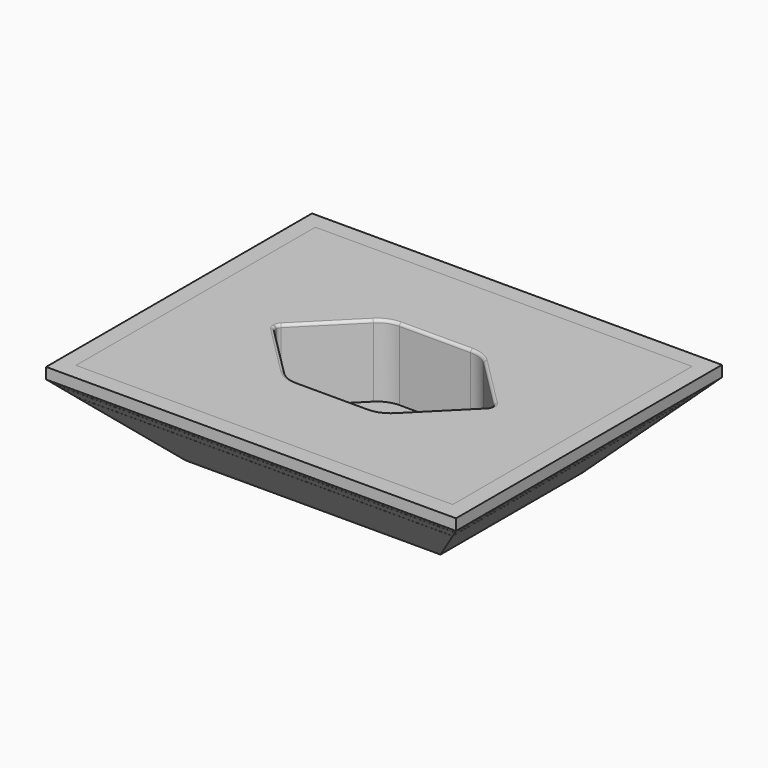
from build123d import *

# Parameters (mm, degrees)
BOX042_W          = 50
BOX042_H          = 50
BOX042_DEPTH      = 13
BOX039_W          = 68
BOX039_H          = 54
BOX039_DEPTH      = 4.1
BOX038_W          = 74
BOX038_H          = 60
BOX038_DEPTH      = 4.1
CHAMFER021_SIZE   = 2
CHAMFER022_SIZE   = 2
BOX033_W          = 72
BOX033_H          = 58
BOX033_DEPTH      = 42
BOX032_W          = 74
BOX032_H          = 60
BOX032_DEPTH      = 42
CHAMFER020_SIZE   = 0.99
BOX041_W          = 74
BOX041_H          = 60
BOX041_DEPTH      = 5
BOX040_W          = 74
BOX040_H          = 60
BOX040_DEPTH      = 10
CYLINDER004_R     = 1.5
CYLINDER004_DEPTH = 20
CYLINDER003_R     = 2.25
CYLINDER003_DEPTH = 20
CYLINDER002_R     = 2.25
CYLINDER002_DEPTH = 20
CYLINDER001_R     = 2.25
CYLINDER001_DEPTH = 20
CYLINDER_R        = 2.25
CYLINDER_DEPTH    = 20
BOX001_W          = 39
BOX001_H          = 23
BOX001_DEPTH      = 16
CHAMFER_SIZE      = 11
FILLET_R          = 1
FILLET001_R       = 5
BOX_W             = 68
BOX_H             = 54
BOX_DEPTH         = 19
CHAMFER023_SIZE   = 10.99
FILLET002_R       = 0.5
FILLET003_R       = 0.5


with BuildPart() as cube003:
    # Box042 → Box042 (new body)
    with BuildSketch(Plane(origin=(12, -55, 32), x_dir=(1, 0, 0), z_dir=(0, 0, 1))):
        with Locations((25, 25)):
            Rectangle(BOX042_W, BOX042_H)
    extrude(amount=BOX042_DEPTH)


with BuildPart() as obj1:
    # Box039 → Box039 (new body)
    with BuildSketch(Plane(origin=(3, -57, 0), x_dir=(1, 0, 0), z_dir=(0, 0, 1))):
        with Locations((34, 27)):
            Rectangle(BOX039_W, BOX039_H)
    extrude(amount=BOX039_DEPTH)


with BuildPart() as chamfer022:
    # Box038 → Box038 (new body)
    with BuildSketch(Plane(origin=(0, -60, 0), x_dir=(1, 0, 0), z_dir=(0, 0, 1))):
        with Locations((37, 30)):
            Rectangle(BOX038_W, BOX038_H)
    extrude(amount=BOX038_DEPTH)

    # Cut019: cut obj1
    add(obj1.part, mode=Mode.SUBTRACT)


with BuildPart() as chamfer022_1:
    # Cut019 placement: moved
    add(chamfer022.part.moved(Location((0, 0, 36.9))))

    # Chamfer021
    chamfer021_edges = [chamfer022_1.edges().sort_by_distance(p)[0] for p in [
        (37, -3, 41),
        (3, -30, 41),
        (37, -57, 41),
        (71, -30, 41),
    ]]
    chamfer(chamfer021_edges, length=CHAMFER021_SIZE)

    # Chamfer022
    chamfer022_edges = [chamfer022_1.edges().sort_by_distance(p)[0] for p in [
        (37, -3, 36.9),
        (3, -30, 36.9),
        (71, -30, 36.9),
        (37, -57, 36.9),
    ]]
    chamfer(chamfer022_edges, length=CHAMFER022_SIZE)


with BuildPart() as obj2:
    # Box033 → Box033 (new body)
    with BuildSketch(Plane(origin=(1, -59, 0), x_dir=(1, 0, 0), z_dir=(0, 0, 1))):
        with Locations((36, 29)):
            Rectangle(BOX033_W, BOX033_H)
    extrude(amount=BOX033_DEPTH)


with BuildPart() as form:
    # Box032 → Box032 (new body)
    with BuildSketch(Plane(origin=(0, -60, 0), x_dir=(1, 0, 0), z_dir=(0, 0, 1))):
        with Locations((37, 30)):
            Rectangle(BOX032_W, BOX032_H)
    extrude(amount=BOX032_DEPTH)

    # Cut014: cut obj2
    add(obj2.part, mode=Mode.SUBTRACT)

    # Chamfer020
    chamfer020_edges = [form.edges().sort_by_distance(p)[0] for p in [
        (37, -1, 42),
        (1, -30, 42),
        (37, -59, 42),
        (73, -30, 42),
    ]]
    chamfer(chamfer020_edges, length=CHAMFER020_SIZE)

    # Fusion: union Chamfer022
    add(chamfer022_1.part)


with BuildPart() as cut022:
    # Box041 → Box041 (new body)
    with BuildSketch(Plane(origin=(0, -60, 39), x_dir=(1, 0, 0), z_dir=(0, 0, 1))):
        with Locations((37, 30)):
            Rectangle(BOX041_W, BOX041_H)
    extrude(amount=BOX041_DEPTH)

    # Cut021: cut Form
    add(form.part, mode=Mode.SUBTRACT)

    # Cut022: cut Cube003
    add(cube003.part, mode=Mode.SUBTRACT)


with BuildPart() as cube:
    # Box040 → Box040 (new body)
    with BuildSketch(Plane(origin=(0, -60, 44), x_dir=(1, 0, 0), z_dir=(0, 0, 1))):
        with Locations((37, 30)):
            Rectangle(BOX040_W, BOX040_H)
    extrude(amount=BOX040_DEPTH)


with BuildPart() as cylinder004:
    # Cylinder004 → Cylinder004 (new body)
    with BuildSketch(Plane(origin=(0, 5, 0), x_dir=(1, 0, 0), z_dir=(0, 0, 1))):
        Circle(CYLINDER004_R)
    extrude(amount=CYLINDER004_DEPTH)


with BuildPart() as cylinder003:
    # Cylinder003 → Cylinder003 (new body)
    with BuildSketch(Plane(origin=(0, 5, 1.5), x_dir=(1, 0, 0), z_dir=(0, 0, 1))):
        Circle(CYLINDER003_R)
    extrude(amount=CYLINDER003_DEPTH)


with BuildPart() as cylinder002:
    # Cylinder002 → Cylinder002 (new body)
    with BuildSketch(Plane(origin=(0, -5, 0), x_dir=(1, 0, 0), z_dir=(0, 0, 1))):
        Circle(CYLINDER002_R)
    extrude(amount=CYLINDER002_DEPTH)


with BuildPart() as cylinder001:
    # Cylinder001 → Cylinder001 (new body)
    with BuildSketch(Plane(origin=(9.5, 0, 0), x_dir=(1, 0, 0), z_dir=(0, 0, 1))):
        Circle(CYLINDER001_R)
    extrude(amount=CYLINDER001_DEPTH)


with BuildPart() as cylinder000:
    # Cylinder → Cylinder (new body)
    with BuildSketch(Plane(origin=(-9.5, 0, 0), x_dir=(1, 0, 0), z_dir=(0, 0, 1))):
        Circle(CYLINDER_R)
    extrude(amount=CYLINDER_DEPTH)


with BuildPart() as obj3:
    # Box001 → Box001 (new body)
    with BuildSketch(Plane(origin=(50, 0, 0), x_dir=(1, 0, 0), z_dir=(0, 0, 1))):
        with Locations((19.5, 11.5)):
            Rectangle(BOX001_W, BOX001_H)
    extrude(amount=BOX001_DEPTH)

    # Chamfer
    chamfer_edges = [obj3.edges().sort_by_distance(p)[0] for p in [
        (50, 0, 8),
        (50, 23, 8),
        (89, 0, 8),
        (89, 23, 8),
    ]]
    chamfer(chamfer_edges, length=CHAMFER_SIZE)

    # Fillet
    fillet_edges = [obj3.edges().sort_by_distance(p)[0] for p in [
        (50, 11, 8),
        (50, 12, 8),
        (89, 11, 8),
        (89, 12, 8),
    ]]
    fillet(fillet_edges, radius=FILLET_R)

    # Fillet001
    fillet001_edges = [obj3.edges().sort_by_distance(p)[0] for p in [
        (61, 0, 8),
        (61, 23, 8),
        (78, 0, 8),
        (78, 23, 8),
    ]]
    fillet(fillet001_edges, radius=FILLET001_R)


with BuildPart() as obj3_1:
    # Fillet001 placement: moved
    add(obj3.part.moved(Location((-69.5, -11.5, 3))))


with BuildPart() as fillet003:
    # Box → Box (new body)
    with BuildSketch(Plane(origin=(-34, -27, 0), x_dir=(1, 0, 0), z_dir=(0, 0, 1))):
        with Locations((34, 27)):
            Rectangle(BOX_W, BOX_H)
    extrude(amount=BOX_DEPTH)

    # Cut: cut obj3
    add(obj3_1.part, mode=Mode.SUBTRACT)

    # Cut001: cut Cylinder000
    add(cylinder000.part, mode=Mode.SUBTRACT)

    # Cut002: cut Cylinder001
    add(cylinder001.part, mode=Mode.SUBTRACT)

    # Cut003: cut Cylinder002
    add(cylinder002.part, mode=Mode.SUBTRACT)

    # Cut004: cut Cylinder003
    add(cylinder003.part, mode=Mode.SUBTRACT)

    # Cut005: cut Cylinder004
    add(cylinder004.part, mode=Mode.SUBTRACT)


with BuildPart() as fillet003_1:
    # Cut005 placement: moved
    add(fillet003.part.moved(Location((37, -30, 28))))

    # Cut020: cut Cube
    add(cube.part, mode=Mode.SUBTRACT)

    # Chamfer023
    chamfer023_edges = [fillet003_1.edges().sort_by_distance(p)[0] for p in [
        (3, -30, 28),
        (37, -57, 28),
        (37, -3, 28),
        (71, -30, 28),
    ]]
    chamfer(chamfer023_edges, length=CHAMFER023_SIZE)

    # Fillet002
    fillet002_edges = [fillet003_1.edges().sort_by_distance(p)[0] for p in [
        (28.657651, -41.119398, 44),
        (37, -41.5, 44),
        (45.342349, -41.119398, 44),
        (51.585786, -35.414214, 44),
        (56.42388, -30.46847, 44),
        (56.5, -30, 44),
        (56.42388, -29.53153, 44),
        (51.585786, -24.585786, 44),
        (45.342349, -18.880602, 44),
        (37, -18.5, 44),
        (28.657651, -18.880602, 44),
        (22.414214, -24.585786, 44),
        (17.57612, -29.53153, 44),
        (17.5, -30, 44),
        (17.57612, -30.46847, 44),
        (22.414214, -35.414214, 44),
    ]]
    fillet(fillet002_edges, radius=FILLET002_R)

    # Fillet003
    fillet003_edges = [fillet003_1.edges().sort_by_distance(p)[0] for p in [
        (34.75, -25, 31),
        (44.25, -30, 31),
        (34.75, -35, 31),
        (25.25, -30, 31),
        (35.5, -25, 29.5),
    ]]
    fillet(fillet003_edges, radius=FILLET003_R)


solid = Compound([cut022.part, fillet003_1.part])
